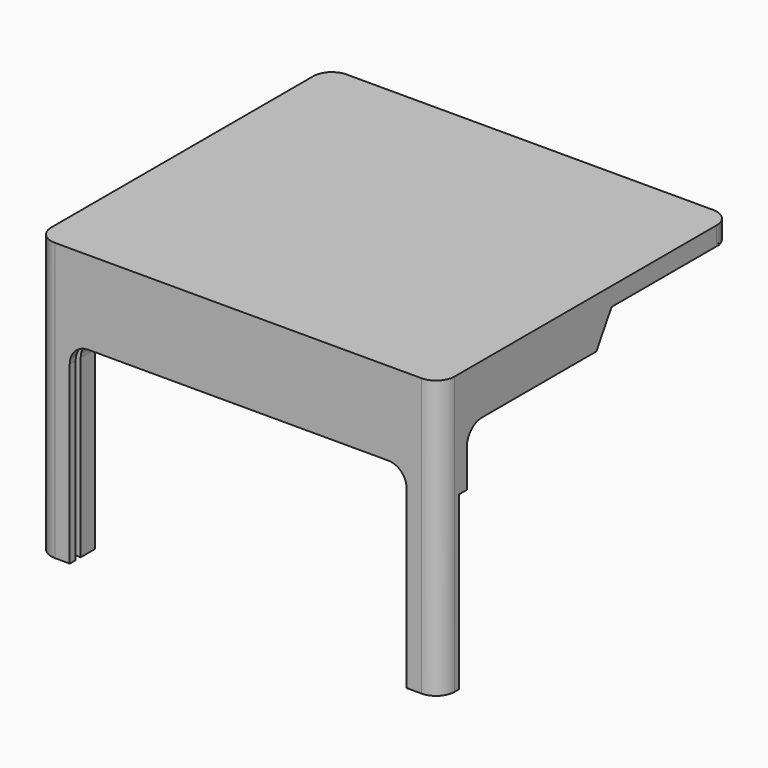
from build123d import *

# Parameters (mm, degrees)
BOX100_W                  = 187
BOX100_H                  = 3.4
BOX100_DEPTH              = 115
CYLINDER175_R             = 3
CYLINDER175_DEPTH         = 200
CYLINDER175_ROLL_ANGLE    = 90
CYLINDER176_R             = 3
CYLINDER176_DEPTH         = 200
CYLINDER176_ROLL_ANGLE    = 90
CYLINDER178_R             = 1.5
CYLINDER178_DEPTH         = 200
CYLINDER178_ROLL_ANGLE    = 90
CYLINDER177_R             = 1.5
CYLINDER177_DEPTH         = 200
CYLINDER177_ROLL_ANGLE    = 90
PAD090_DEPTH              = 55
BOX094_W                  = 5
BOX094_H                  = 176
BOX094_DEPTH              = 140
PAD091_DEPTH              = 55
BOX095_W                  = 6
BOX095_H                  = 176
BOX095_DEPTH              = 140
BOX093_W                  = 33
BOX093_H                  = 132
BOX093_DEPTH              = 54
BOX093_PLACEMENT_ANGLE    = 3
FILLET087_R               = 10
FILLET087_PLACEMENT_ANGLE = -3
BOX091_W                  = 18
BOX091_H                  = 17
BOX091_DEPTH              = 140
FILLET086_R               = 10
BOX090_W                  = 18
BOX090_H                  = 17
BOX090_DEPTH              = 140
FILLET085_R               = 10
BOX092_W                  = 182
BOX092_H                  = 16
BOX092_DEPTH              = 35
BOX097_W                  = 6
BOX097_H                  = 176
BOX097_DEPTH              = 80
BOX096_W                  = 5
BOX096_H                  = 176
BOX096_DEPTH              = 80
BOX088_W                  = 218
BOX088_H                  = 197
BOX088_DEPTH              = 10
FILLET083_R               = 10
FILLET084_R               = 10
CYLINDER172_R             = 2
CYLINDER172_DEPTH         = 300
CYLINDER172_PITCH_ANGLE   = 90
BOX099_W                  = 60
BOX099_H                  = 10
BOX099_DEPTH              = 10
FILLET089_R               = 4
FILLET090_R               = 10
FILLET091_R               = 10


with BuildPart() as cubo095:
    # Box100 → Box100 (new body)
    with BuildSketch(Plane(origin=(0, -44, 0), x_dir=(1, 0, 0), z_dir=(0, 0, 1))):
        with Locations((93.5, 1.7)):
            Rectangle(BOX100_W, BOX100_H)
    extrude(amount=BOX100_DEPTH)


with BuildPart() as obj1:
    # Cylinder175 → Cylinder175 (new body)
    with BuildSketch(Plane.XY):
        Circle(CYLINDER175_R)
    extrude(amount=CYLINDER175_DEPTH)


with BuildPart() as obj1_1:
    # Cylinder175 roll: moved
    add(obj1.part.rotate(Axis((0, 0, 0), (1, 0, 0)), CYLINDER175_ROLL_ANGLE))


with BuildPart() as obj1_2:
    # Cylinder175 placement: moved
    add(obj1_1.part.moved(Location((20, 165, 110))))


with BuildPart() as obj2:
    # Cylinder176 → Cylinder176 (new body)
    with BuildSketch(Plane.XY):
        Circle(CYLINDER176_R)
    extrude(amount=CYLINDER176_DEPTH)


with BuildPart() as obj2_1:
    # Cylinder176 roll: moved
    add(obj2.part.rotate(Axis((0, 0, 0), (1, 0, 0)), CYLINDER176_ROLL_ANGLE))


with BuildPart() as obj2_2:
    # Cylinder176 placement: moved
    add(obj2_1.part.moved(Location((160, 165, 110))))


with BuildPart() as obj3:
    # Cylinder178 → Cylinder178 (new body)
    with BuildSketch(Plane.XY):
        Circle(CYLINDER178_R)
    extrude(amount=CYLINDER178_DEPTH)


with BuildPart() as obj3_1:
    # Cylinder178 roll: moved
    add(obj3.part.rotate(Axis((0, 0, 0), (1, 0, 0)), CYLINDER178_ROLL_ANGLE))


with BuildPart() as obj3_2:
    # Cylinder178 placement: moved
    add(obj3_1.part.moved(Location((160, 154, 110))))


with BuildPart() as obj4:
    # Cylinder177 → Cylinder177 (new body)
    with BuildSketch(Plane.XY):
        Circle(CYLINDER177_R)
    extrude(amount=CYLINDER177_DEPTH)


with BuildPart() as obj4_1:
    # Cylinder177 roll: moved
    add(obj4.part.rotate(Axis((0, 0, 0), (1, 0, 0)), CYLINDER177_ROLL_ANGLE))


with BuildPart() as obj4_2:
    # Cylinder177 placement: moved
    add(obj4_1.part.moved(Location((20, 154, 110))))


with BuildPart() as pad090:
    # Sketch098 → Pad090 (new body)
    with BuildSketch(Plane(origin=(0, 0, 0), x_dir=(0, -1, 0), z_dir=(-1, 0, 0))):
        Polygon((-174.561249, 149.464645), (-73.728157, 149.464645), (-50.393822, 111), (-27.455967, 92.725647), (51.678024, 92.725647), (59.260941, 172), (-154.48703, 174.345367), align=None)
    extrude(amount=PAD090_DEPTH)


with BuildPart() as cut209:
    # Box094 → Box094 (new body)
    with BuildSketch(Plane(origin=(-15, -35, 0), x_dir=(1, 0, 0), z_dir=(0, 0, 1))):
        with Locations((2.5, 88)):
            Rectangle(BOX094_W, BOX094_H)
    extrude(amount=BOX094_DEPTH)

    # Cut209: cut Pad090
    add(pad090.part, mode=Mode.SUBTRACT)


with BuildPart() as pad091:
    # Sketch099 → Pad091 (new body)
    with BuildSketch(Plane(origin=(0, 0, 0), x_dir=(0, -1, 0), z_dir=(-1, 0, 0))):
        Polygon((-174.561249, 149.464645), (-73.728157, 149.464645), (-50.393822, 111), (-27.455967, 92.725647), (51.678024, 92.725647), (59.260941, 172), (-154.48703, 174.345367), align=None)
    extrude(amount=PAD091_DEPTH)


with BuildPart() as cut210:
    # Box095 → Box095 (new body)
    with BuildSketch(Plane(origin=(-15, -35, 0), x_dir=(1, 0, 0), z_dir=(0, 0, 1))):
        with Locations((3, 88)):
            Rectangle(BOX095_W, BOX095_H)
    extrude(amount=BOX095_DEPTH)

    # Cut210: cut Pad091
    add(pad091.part, mode=Mode.SUBTRACT)


with BuildPart() as cut210_1:
    # Cut210 placement: moved
    add(cut210.part.moved(Location((212, 0, 0))))


with BuildPart() as fillet104:
    # Box093 → Box093 (new body)
    with BuildSketch(Plane.XY):
        with Locations((16.5, 66)):
            Rectangle(BOX093_W, BOX093_H)
    extrude(amount=BOX093_DEPTH)


with BuildPart() as fillet104_1:
    # Box093 placement: moved
    add(fillet104.part.moved(Location((188, -32, 69))).rotate(Axis((188, -32, 69), (0, 0, 1)), BOX093_PLACEMENT_ANGLE))

    # Fillet087
    fillet087_edges = [fillet104_1.edges().sort_by_distance(p)[0] for p in [
        (204.477387, -31.136457, 69),
        (204.477387, -31.136457, 123),
        (197.569041, 100.682642, 69),
        (197.569041, 100.682642, 123),
    ]]
    fillet(fillet087_edges, radius=FILLET087_R)


with BuildPart() as fillet104_2:
    # Fillet087 placement: moved
    add(fillet104_1.part.moved(Location((0, 12, 0))).rotate(Axis((0, 12, 0), (0, 0, 1)), FILLET087_PLACEMENT_ANGLE))


with BuildPart() as fillet103:
    # Box091 → Box091 (new body)
    with BuildSketch(Plane(origin=(185, -48, 0), x_dir=(1, 0, 0), z_dir=(0, 0, 1))):
        with Locations((9, 8.5)):
            Rectangle(BOX091_W, BOX091_H)
    extrude(amount=BOX091_DEPTH)

    # Fillet086
    fillet086_edges = [fillet103.edges().sort_by_distance(p)[0] for p in [
        (203, -48, 70),
    ]]
    fillet(fillet086_edges, radius=FILLET086_R)


with BuildPart() as fillet102:
    # Box090 → Box090 (new body)
    with BuildSketch(Plane(origin=(-15, -48, 0), x_dir=(1, 0, 0), z_dir=(0, 0, 1))):
        with Locations((9, 8.5)):
            Rectangle(BOX090_W, BOX090_H)
    extrude(amount=BOX090_DEPTH)

    # Fillet085
    fillet085_edges = [fillet102.edges().sort_by_distance(p)[0] for p in [
        (-15, -48, 70),
    ]]
    fillet(fillet085_edges, radius=FILLET085_R)


with BuildPart() as cubo087:
    # Box092 → Box092 (new body)
    with BuildSketch(Plane(origin=(3, -48, 105), x_dir=(1, 0, 0), z_dir=(0, 0, 1))):
        with Locations((91, 8)):
            Rectangle(BOX092_W, BOX092_H)
    extrude(amount=BOX092_DEPTH)


with BuildPart() as cubo092:
    # Box097 → Box097 (new body)
    with BuildSketch(Plane(origin=(197, -35, 61), x_dir=(1, 0, 0), z_dir=(0, 0, 1))):
        with Locations((3, 88)):
            Rectangle(BOX097_W, BOX097_H)
    extrude(amount=BOX097_DEPTH)


with BuildPart() as cubo091:
    # Box096 → Box096 (new body)
    with BuildSketch(Plane(origin=(-15, -35, 61), x_dir=(1, 0, 0), z_dir=(0, 0, 1))):
        with Locations((2.5, 88)):
            Rectangle(BOX096_W, BOX096_H)
    extrude(amount=BOX096_DEPTH)


with BuildPart() as cut213:
    # Box088 → Box088 (new body)
    with BuildSketch(Plane(origin=(-15, -48, 140), x_dir=(1, 0, 0), z_dir=(0, 0, 1))):
        with Locations((109, 98.5)):
            Rectangle(BOX088_W, BOX088_H)
    extrude(amount=BOX088_DEPTH)

    # Fillet083
    fillet083_edges = [cut213.edges().sort_by_distance(p)[0] for p in [
        (-15, 149, 145),
        (203, 149, 145),
    ]]
    fillet(fillet083_edges, radius=FILLET083_R)

    # Fillet084
    fillet084_edges = [cut213.edges().sort_by_distance(p)[0] for p in [
        (-15, -48, 145),
        (203, -48, 145),
    ]]
    fillet(fillet084_edges, radius=FILLET084_R)

    # Fusion092: union Cubo092, Cubo091
    add(cubo092.part)
    add(cubo091.part)

    # Fusion093: union Fillet103, Fillet102, Cubo087
    add(fillet103.part)
    add(fillet102.part)
    add(cubo087.part)

    # Cut211: cut Fillet104
    add(fillet104_2.part, mode=Mode.SUBTRACT)

    # Cut212: cut Cut210
    add(cut210_1.part, mode=Mode.SUBTRACT)

    # Cut213: cut Cut209
    add(cut209.part, mode=Mode.SUBTRACT)


with BuildPart() as obj5:
    # Cylinder172 → Cylinder172 (new body)
    with BuildSketch(Plane.XY):
        Circle(CYLINDER172_R)
    extrude(amount=CYLINDER172_DEPTH)


with BuildPart() as obj5_1:
    # Cylinder172 pitch: moved
    add(obj5.part.rotate(Axis((0, 0, 0), (0, 1, 0)), CYLINDER172_PITCH_ANGLE))


with BuildPart() as obj5_2:
    # Cylinder172 placement: moved
    add(obj5_1.part.moved(Location((-54, 144, 135))))


with BuildPart() as top:
    # Box099 → Box099 (new body)
    with BuildSketch(Plane(origin=(64, 139, 130), x_dir=(1, 0, 0), z_dir=(0, 0, 1))):
        with Locations((30, 5)):
            Rectangle(BOX099_W, BOX099_H)
    extrude(amount=BOX099_DEPTH)

    # Fillet089
    fillet089_edges = [top.edges().sort_by_distance(p)[0] for p in [
        (94, 139, 130),
        (94, 149, 130),
    ]]
    fillet(fillet089_edges, radius=FILLET089_R)

    # Cut216: cut obj5
    add(obj5_2.part, mode=Mode.SUBTRACT)

    # Fusion094: union Cut213
    add(cut213.part)

    # Fillet090
    fillet090_edges = [top.edges().sort_by_distance(p)[0] for p in [
        (3, -40, 105),
    ]]
    fillet(fillet090_edges, radius=FILLET090_R)

    # Fillet091
    fillet091_edges = [top.edges().sort_by_distance(p)[0] for p in [
        (185, -40, 105),
    ]]
    fillet(fillet091_edges, radius=FILLET091_R)

    # Cut219: cut obj4
    add(obj4_2.part, mode=Mode.SUBTRACT)

    # Cut220: cut obj3
    add(obj3_2.part, mode=Mode.SUBTRACT)

    # Cut221: cut obj2
    add(obj2_2.part, mode=Mode.SUBTRACT)

    # Cut222: cut obj1
    add(obj1_2.part, mode=Mode.SUBTRACT)

    # Cut223: cut Cubo095
    add(cubo095.part, mode=Mode.SUBTRACT)


solid = top.part
